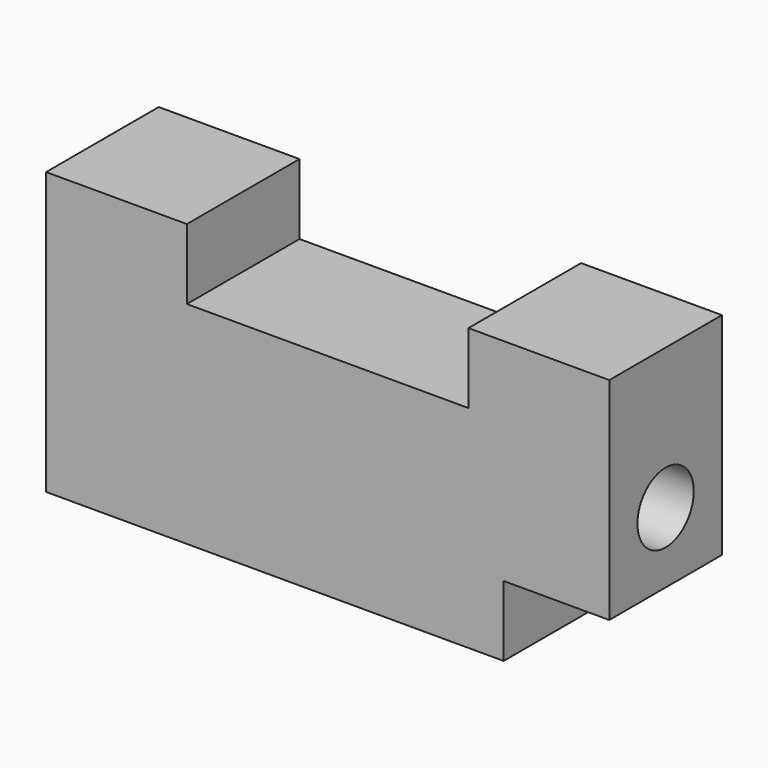
from build123d import *

# Parameters (mm, degrees)
F0_W     = 101.6
F0_H     = 50.8
F1_DEPTH = 25.4
F2_W     = 50.8
F2_H     = 12.7
F3_DEPTH = 25.4
F4_W     = 25.4
F4_H     = 12.7
F5_DEPTH = 19.05
F6_R     = 6.35
F7_DEPTH = 101.601


with BuildPart() as f1:
    # F0 (on Front) → F1 (new body)
    with BuildSketch(Plane.XZ):
        with Locations((-1.75659, 31.582894)):
            Rectangle(F0_W, F0_H)
    extrude(amount=F1_DEPTH)

    # F2 (on face) → F3 (cut)
    with BuildSketch(Plane.XZ.offset(25.4)):
        with Locations((-1.75659, 50.632894)):
            Rectangle(F2_W, F2_H)
    extrude(amount=-F3_DEPTH, mode=Mode.SUBTRACT)

    # F4 (on face) → F5 (cut)
    with BuildSketch(Plane.YZ.offset(49.04341)):
        with Locations((-12.7, 12.532894)):
            Rectangle(F4_W, F4_H)
    extrude(amount=-F5_DEPTH, mode=Mode.SUBTRACT)

    # F6 (on face) → F7 (cut, through all)
    with BuildSketch(Plane.YZ.offset(49.04341)):
        with Locations((-12.7, 31.582894)):
            Circle(F6_R)
    extrude(amount=-F7_DEPTH, mode=Mode.SUBTRACT)


solid = f1.part
